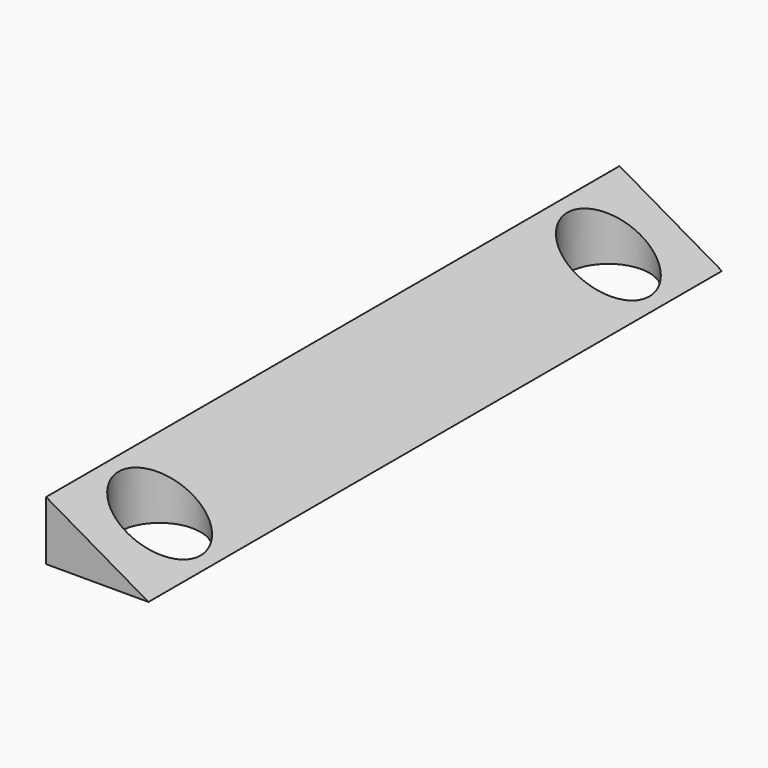
from build123d import *

# Parameters (mm, degrees)
F1_DEPTH = 28
F3_D     = 3
F3_DEPTH = 14.4
F2_R     = 1.6
F4_DEPTH = 25


with BuildPart() as f1:
    # F0 (on Front) → F1 (new body)
    with BuildSketch(Plane.XZ):
        Polygon((0, 2.309401), (0, 0), (4, 0), align=None)
    extrude(amount=F1_DEPTH)

    # F3
    with Locations(Plane(origin=(0, 0, 0), x_dir=(1, 0, 0), z_dir=(0, 0, -1))):
        with Locations((2, 24.956)):
            Hole(F3_D / 2, depth=F3_DEPTH)

    # F2 (on face) → F4 (cut)
    with BuildSketch(Plane(origin=(0, 0, 0), x_dir=(1, 0, 0), z_dir=(0, 0, -1))):
        with Locations((2, 24.956)):
            Circle(F2_R)
        with Locations((2, 3.044)):
            Circle(F2_R)
    extrude(amount=-F4_DEPTH, mode=Mode.SUBTRACT)


solid = f1.part
